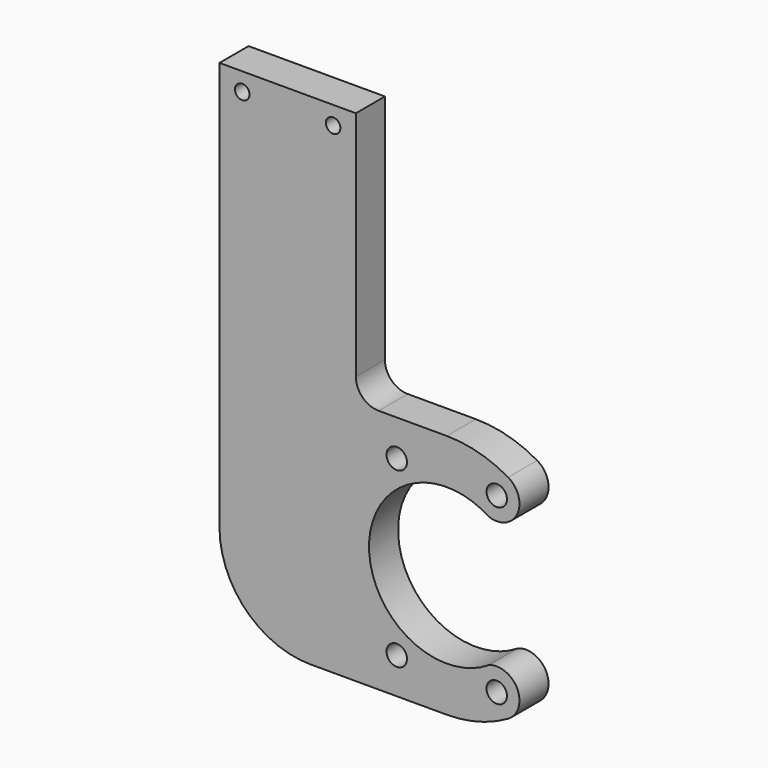
from build123d import *

# Parameters (mm, degrees)
F0_R     = 2.25
F0_R_2   = 1.6
F1_DEPTH = 8


with BuildPart() as f1:
    # F0 (on Front) → F1 (new body)
    with BuildSketch(Plane.XZ):
        with BuildLine():
            ThreePointArc((9.298187, -14.351087), (-17.1, 0), (9.298187, 14.351087))
            ThreePointArc((9.298187, 14.351087), (15.5334, 16.943464), (13.5, 23.382686))
            ThreePointArc((13.5, 23.382686), (6.988114, 26.079997), (0, 27))
            Line((0, 27), (-15, 27))
            ThreePointArc((-15, 27), (-18.535534, 28.464466), (-20, 32))
            Line((-20, 32), (-20, 83))
            Line((-20, 83), (-50, 83))
            Line((-50, 83), (-50, -7))
            ThreePointArc((-50, -7), (-44.142136, -21.142136), (-30, -27))
            Line((-30, -27), (0, -27))
            ThreePointArc((0, -27), (6.988114, -26.079997), (13.5, -23.382686))
            ThreePointArc((13.5, -23.382686), (15.5334, -16.943464), (9.298187, -14.351087))
        make_face()
        with Locations((-11, -19.052559)):
            Circle(F0_R, mode=Mode.SUBTRACT)
        with Locations((11, -19.052559)):
            Circle(F0_R, mode=Mode.SUBTRACT)
        with Locations((-11, 19.052559)):
            Circle(F0_R, mode=Mode.SUBTRACT)
        with Locations((11, 19.052559)):
            Circle(F0_R, mode=Mode.SUBTRACT)
        with Locations((-45, 79)):
            Circle(F0_R_2, mode=Mode.SUBTRACT)
        with Locations((-25, 79)):
            Circle(F0_R_2, mode=Mode.SUBTRACT)
    extrude(amount=F1_DEPTH)


solid = f1.part
